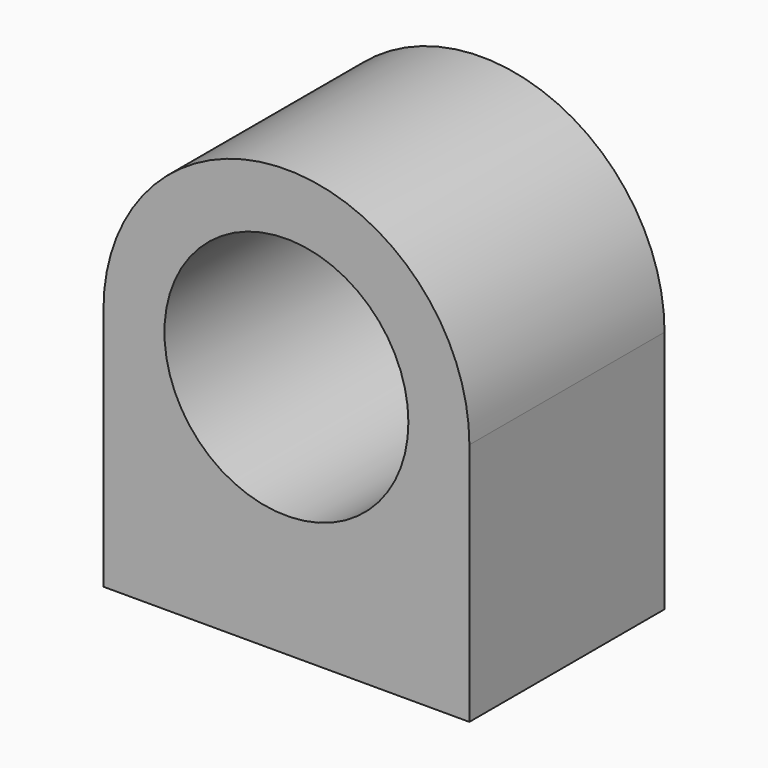
from build123d import *

# Parameters (mm, degrees)
F0_R     = 12.7
F1_DEPTH = 12.7
F3_D     = 6.35
F3_DEPTH = 12.7
F3_TIP   = 1.9077324654


with BuildPart() as f1:
    # F0 (on Front) → F1 (new body, symmetric)
    with BuildSketch(Plane.XZ):
        with BuildLine():
            Line((19.05, -25.4), (19.05, 0))
            ThreePointArc((19.05, 0), (0, 19.05), (-19.05, 0))
            Line((-19.05, 0), (-19.05, -25.4))
            Line((-19.05, -25.4), (19.05, -25.4))
        make_face()
        Circle(F0_R, mode=Mode.SUBTRACT)
    extrude(amount=F1_DEPTH, both=True)

    # F3
    with Locations(Plane(origin=(0, 0, -25.4), x_dir=(1, 0, 0), z_dir=(0, 0, -1))):
        with Locations((-12.7, 0), (12.7, 0)):
            Hole(F3_D / 2, depth=F3_DEPTH)
            with Locations((0, 0, -(F3_DEPTH + F3_TIP / 2))):  # 118° drill point
                Cone(0, F3_D / 2, F3_TIP, mode=Mode.SUBTRACT)


solid = f1.part
